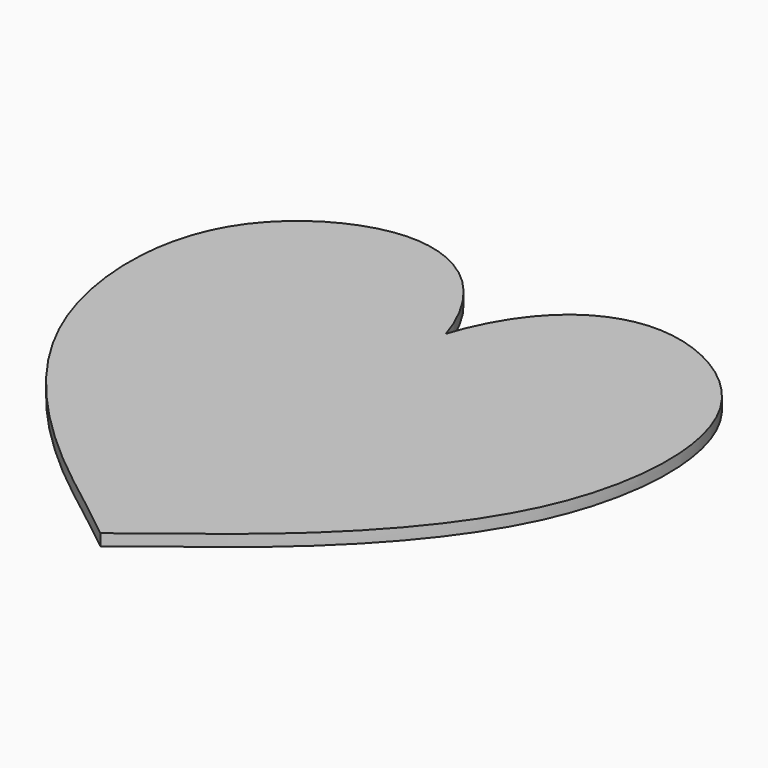
from build123d import *

# Parameters (mm, degrees)
F1_DEPTH = 3


with BuildPart() as f1:
    # F0 (on Top) → F1 (new body)
    with BuildSketch(Plane.XY):
        with BuildLine():
            add(Edge.make_bspline(
                [(2.6276221033, 8.5307536647), (4.5528227925, 14.9323386964), (12.5892390644, 30.9422068211), (37.5245030602, 41.748522773), (75.6215667976, 19.6444276913), (72.4741076627, -40.868834064), (28.8766694944, -83.8268887696), (15.3671781021, -92.7045045983), (2.6276221033, -102.9997383739)],
                knots=[0, 0, 0, 0, 0.131813136, 0.2661763282, 0.4305411385, 0.6322498153, 0.8376192768, 1, 1, 1, 1], degree=3))
            add(Edge.make_bspline(
                [(2.6276221033, 8.5307536647), (0.7024214142, 14.9323386964), (-7.3339948578, 30.9422068211), (-32.2692588536, 41.748522773), (-70.366322591, 19.6444276913), (-67.2188634561, -40.868834064), (-23.6214252877, -83.8268887696), (-10.1119338955, -92.7045045983), (2.6276221033, -102.9997383739)],
                knots=[0, 0, 0, 0, 0.131813136, 0.2661763282, 0.4305411385, 0.6322498153, 0.8376192768, 1, 1, 1, 1], degree=3))
        make_face()
    extrude(amount=F1_DEPTH)


solid = f1.part
